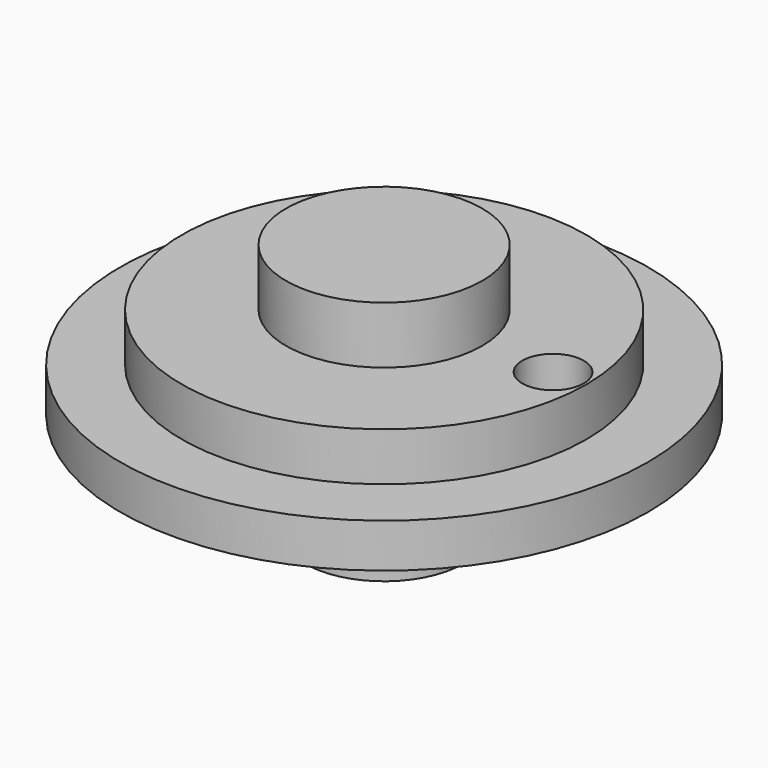
from build123d import *

# Parameters (mm, degrees)
F0_R          = 30
F1_DEPTH      = 5
F2_R          = 11.15
F3_DEPTH      = 12
F3_DEPTH_BACK = 8
F4_R          = 9
F5_DEPTH      = 9
F6_R          = 23
F7_DEPTH      = 5.5
F8_R          = 3.5
F9_DEPTH      = 12.5


with BuildPart() as f1:
    # F0 (on Top) → F1 (new body)
    with BuildSketch(Plane.XY):
        Circle(F0_R)
    extrude(amount=F1_DEPTH)

    # F2 (on face) → F3 (join, two sides)
    with BuildSketch(Plane.XY.offset(5)) as f3_sk:
        Circle(F2_R)
    extrude(amount=F3_DEPTH)
    extrude(f3_sk.sketch, amount=-F3_DEPTH_BACK)

    # F4 (on face) → F5 (join)
    with BuildSketch(Plane(origin=(0, 0, -3), x_dir=(1, 0, 0), z_dir=(0, 0, -1))):
        Circle(F4_R)
    extrude(amount=F5_DEPTH)

    # F6 (on face) → F7 (join)
    with BuildSketch(Plane.XY.offset(5)):
        Circle(F6_R)
    extrude(amount=F7_DEPTH)

    # F8 (on face) → F9 (cut, symmetric)
    with BuildSketch(Plane.XY.offset(5)):
        with Locations((19.200256, 0)):
            Circle(F8_R)
    extrude(amount=F9_DEPTH, both=True, mode=Mode.SUBTRACT)


solid = f1.part
